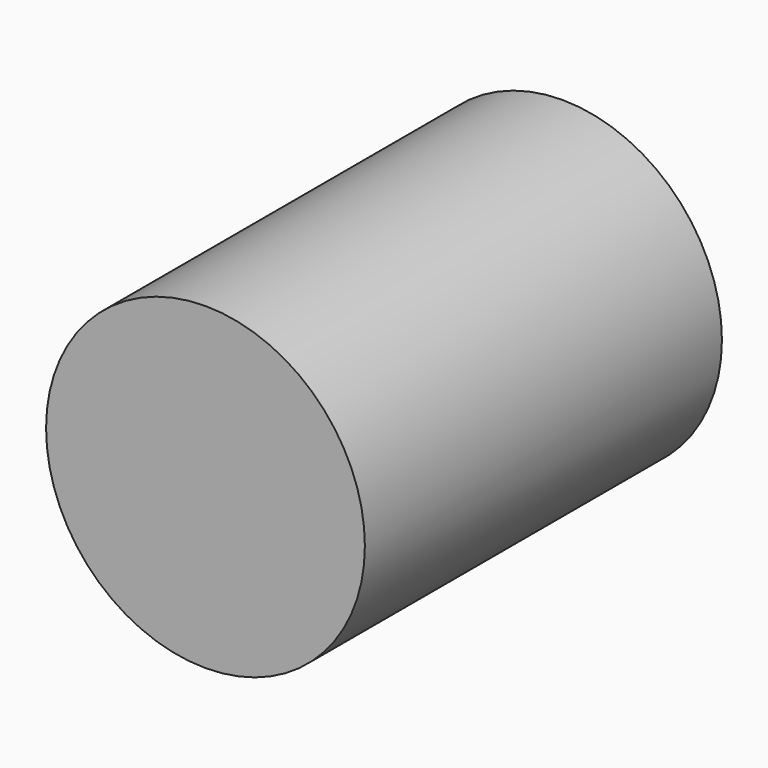
from build123d import *

# Parameters (mm, degrees)
F0_R     = 50
F0_R_2   = 30
F0_R_3   = 10
F1_DEPTH = 140
F2_DEPTH = 40
F3_DEPTH = 120


with BuildPart() as f1:
    # F0 (on Front) → F1 (new body)
    with BuildSketch(Plane.XZ):
        Circle(F0_R)
        Circle(F0_R_2, mode=Mode.SUBTRACT)
        Circle(F0_R_2)
        Circle(F0_R_3, mode=Mode.SUBTRACT)
        Circle(F0_R_3)
    extrude(amount=F1_DEPTH)

    # F0 (on Front) → F2 (cut)
    with BuildSketch(Plane.XZ):
        Circle(F0_R_2)
        Circle(F0_R_3, mode=Mode.SUBTRACT)
        Circle(F0_R_3)
    extrude(amount=F2_DEPTH, mode=Mode.SUBTRACT)

    # F0 (on Front) → F3 (cut)
    with BuildSketch(Plane.XZ):
        Circle(F0_R_3)
    extrude(amount=F3_DEPTH, mode=Mode.SUBTRACT)


solid = f1.part
